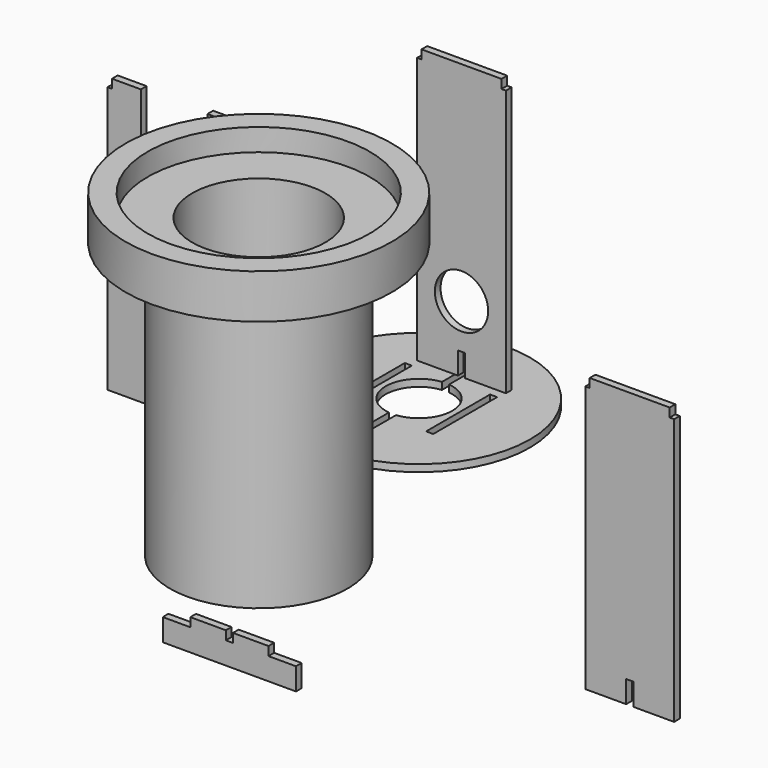
from build123d import *

# Parameters (mm, degrees)
F0_R     = 25
F0_W     = 1.6
F0_H     = 18
F1_DEPTH = 1.6
F3_DEPTH = 0.8
F5_DEPTH = 0.8
F6_R     = 6
F7_DEPTH = 0.8
F9_DEPTH = 0.8


with BuildPart() as f1:
    # F0 (on Top) → F1 (new body)
    with BuildSketch(Plane.XY):
        Circle(F0_R)
        with Locations((-9.6, 0)):
            Rectangle(F0_W, F0_H, mode=Mode.SUBTRACT)
        with BuildLine():
            ThreePointArc((0.8, 7.457211), (5.578978, 5.012484), (7.5, 0))
            ThreePointArc((7.5, 0), (5.578978, -5.012484), (0.8, -7.457211))
            Line((0.8, -7.457211), (0.8, -14))
            Line((0.8, -14), (-0.8, -14))
            Line((-0.8, -14), (-0.8, -7.457211))
            ThreePointArc((-0.8, -7.457211), (-7.5, 0), (-0.8, 7.457211))
            Line((-0.8, 7.457211), (-0.8, 14))
            Line((-0.8, 14), (0.8, 14))
            Line((0.8, 14), (0.8, 7.457211))
        make_face(mode=Mode.SUBTRACT)
        with Locations((9.6, 0)):
            Rectangle(F0_W, F0_H, mode=Mode.SUBTRACT)
    extrude(amount=F1_DEPTH)


with BuildPart() as f3:
    # F2 (on Front) → F3 (new body, symmetric)
    with BuildSketch(Plane.XZ):
        Polygon((-61.996324, 43.042513), (-68.496324, 43.042513), (-68.496324, 41.042513), (-69.496324, 41.042513), (-69.496324, -18.957487), (-55.296324, -18.957487), (-55.296324, -13.957487), (-53.696324, -13.957487), (-53.696324, -18.957487), (-39.496324, -18.957487), (-39.496324, 41.042513), (-40.496324, 41.042513), (-40.496324, 43.042513), (-46.996324, 43.042513), (-46.996324, 23.042513), (-61.996324, 23.042513), align=None)
    extrude(amount=F3_DEPTH, both=True)


with BuildPart() as f5:
    # F4 (on Front) → F5 (new body, symmetric)
    with BuildSketch(Plane.XZ):
        Polygon((57.083729, 16.70141), (57.083729, 18.70141), (39.083729, 18.70141), (39.083729, 16.70141), (38.083729, 16.70141), (38.083729, -43.29859), (47.283729, -43.29859), (47.283729, -38.29859), (48.883729, -38.29859), (48.883729, -43.29859), (58.083729, -43.29859), (58.083729, 16.70141), align=None)
    extrude(amount=F5_DEPTH, both=True)


with BuildPart() as f7:
    # F6 (on Front) → F7 (new body, symmetric)
    with BuildSketch(Plane.XZ):
        Polygon((11.007798, 9.526967), (20.207798, 9.526967), (20.207798, 69.526967), (19.207798, 69.526967), (19.207798, 71.526967), (1.207798, 71.526967), (1.207798, 69.526967), (0.207798, 69.526967), (0.207798, 9.526967), (9.407798, 9.526967), (9.407798, 14.526967), (11.007798, 14.526967), align=None)
        with Locations((10.207798, 24.526967)):
            Circle(F6_R, mode=Mode.SUBTRACT)
    extrude(amount=F7_DEPTH, both=True)


with BuildPart() as f9:
    # F8 (on Front) → F9 (new body, symmetric)
    with BuildSketch(Plane.XZ):
        Polygon((-57.060106, -59.955354), (-57.060106, -64.955354), (-27.060106, -64.955354), (-27.060106, -59.955354), (-33.260106, -59.955354), (-33.260106, -57.955354), (-41.260106, -57.955354), (-41.260106, -59.955354), (-42.860106, -59.955354), (-42.860106, -57.955354), (-50.860106, -57.955354), (-50.860106, -59.955354), align=None)
    extrude(amount=F9_DEPTH, both=True)


with BuildPart() as f11:
    # F10 (on Right) → F11 (revolve)
    with BuildSketch(Plane.YZ):
        Polygon((-45.114002, -11.248204), (-45.114002, -6.248204), (-60.114002, -6.248204), (-60.114002, 55.751796), (-70.114002, 55.751796), (-70.114002, 60.751796), (-75.114002, 60.751796), (-75.114002, 50.751796), (-65.114002, 50.751796), (-65.114002, -11.248204), align=None)
    revolve(axis=Axis((0, -45.114002, -8.748204), (0, 0, -1)))


solid = Compound([f1.part, f3.part, f5.part, f7.part, f9.part, f11.part])
